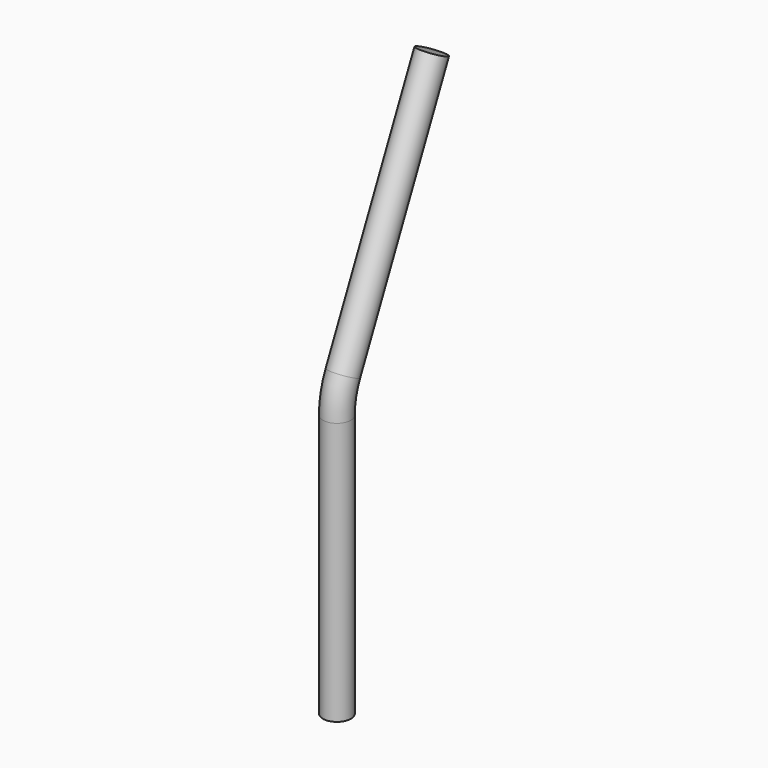
from build123d import *

# Parameters (mm, degrees)
F1_R = 20


with BuildPart() as f2:
    # F2: sweep along a path in F0
    with BuildLine(Plane.YZ) as f2_path:
        Line((0, 0), (0, 374.726808))
        ThreePointArc((0, 374.726808), (2.702255, 399.400924), (10.680912, 422.90529))
        Line((10.680912, 422.90529), (169.047305, 762.523115))
    # F1 (on Top) → F2 (sweep)
    with BuildSketch(Plane.XY):
        Circle(F1_R)
    sweep(path=f2_path.line)


solid = f2.part
